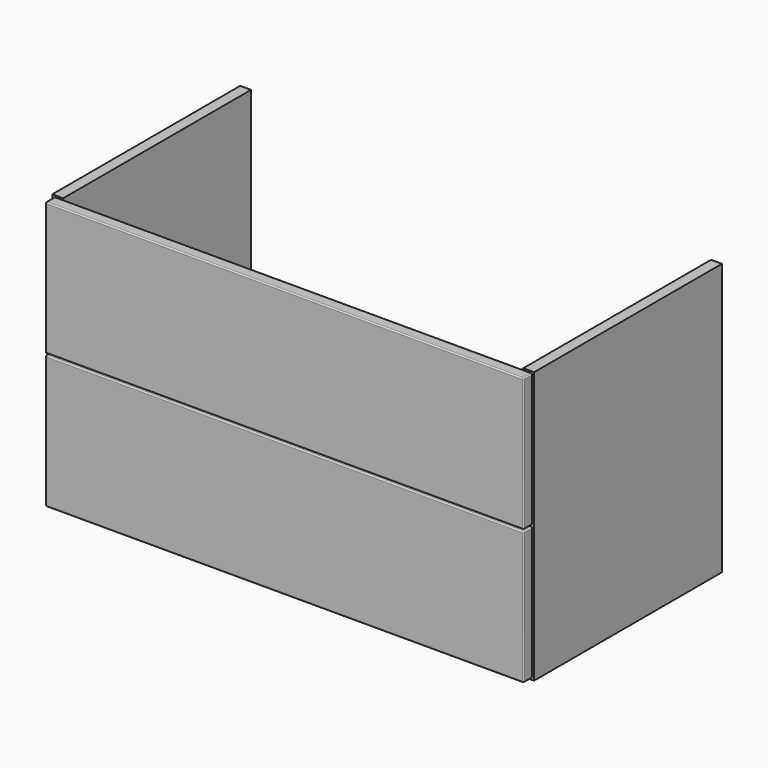
from build123d import *

# Parameters (mm, degrees)
F1_DEPTH = 390
F0_W     = 764
F0_H     = 18
F2_DEPTH = 390
F3_W     = 794
F3_H     = 221
F4_DEPTH = 18
F5_R     = 2


with BuildPart() as f1:
    # F0 (on Front) → F1 (new body)
    with BuildSketch(Plane.XZ):
        Polygon((-382, -207.5), (-382, 225.5), (-400, 225.5), (-400, -225.5), (-382, -225.5), align=None)
        Polygon((400, -225.5), (400, 225.5), (382, 225.5), (382, -207.5), (382, -225.5), align=None)
    extrude(amount=-F1_DEPTH)


with BuildPart() as f2:
    # F0 (on Front) → F2 (new body)
    with BuildSketch(Plane.XZ):
        with Locations((0, -216.5)):
            Rectangle(F0_W, F0_H)
    extrude(amount=-F2_DEPTH)


with BuildPart() as f4:
    # F3 (on Front) → F4 (new body)
    with BuildSketch(Plane.XZ):
        with Locations((0, 112)):
            Rectangle(F3_W, F3_H)
        with Locations((0, -112)):
            Rectangle(F3_W, F3_H)
    extrude(amount=F4_DEPTH)

    # F5
    f5_edges = [f4.edges().sort_by_distance(p)[0] for p in [
        (-397, -18, 112),
        (0, -18, 1.5),
        (397, -18, 112),
        (0, -18, 222.5),
        (-397, -18, -112),
        (0, -18, -222.5),
        (397, -18, -112),
        (0, -18, -1.5),
        (397, -9, 222.5),
        (-397, -9, 222.5),
        (397, -9, -222.5),
        (397, -9, -1.5),
        (397, -9, 1.5),
        (-397, -9, -222.5),
        (-397, -9, -1.5),
    ]]
    fillet(f5_edges, radius=F5_R)


solid = Compound([f1.part, f2.part, f4.part])
